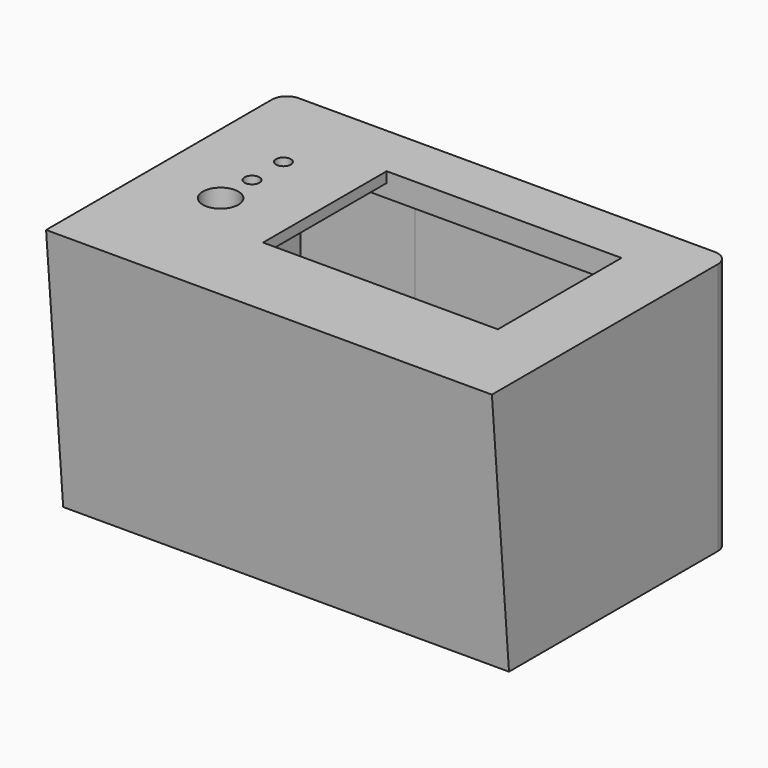
from build123d import *

# Parameters (mm, degrees)
F0_R     = 6
F0_R_2   = 2.5
F0_W     = 79
F0_H     = 52
F1_DEPTH = 85
F2_DEPTH = 77
F3_W     = 8
F3_H     = 52
F4_DEPTH = 81.5
F6_DEPTH = 150


with BuildPart() as f1:
    # F0 (on Top) → F1 (new body)
    with BuildSketch(Plane.XY):
        with BuildLine():
            Line((0, 95), (0, 0))
            Line((0, 0), (150, 0))
            Line((150, 0), (150, 95))
            ThreePointArc((150, 95), (148.535534, 98.535534), (145, 100))
            Line((145, 100), (5, 100))
            ThreePointArc((5, 100), (1.464466, 98.535534), (0, 95))
        make_face()
        Polygon((140, 94), (140, 18), (49, 18), (10, 18), (10, 94.470508), (49, 94), align=None, mode=Mode.SUBTRACT)
        Polygon((49, 18), (140, 18), (140, 94), (49, 94), (10, 94.470508), (10, 18), align=None)
        with Locations((24.5, 42.768653)):
            Circle(F0_R, mode=Mode.SUBTRACT)
        with Locations((24.5, 56)):
            Circle(F0_R_2, mode=Mode.SUBTRACT)
        with Locations((24.5, 69.2)):
            Circle(F0_R_2, mode=Mode.SUBTRACT)
        with Locations((88.5, 56)):
            Rectangle(F0_W, F0_H, mode=Mode.SUBTRACT)
    extrude(amount=F1_DEPTH)

    # F0 (on Top) → F2 (cut)
    with BuildSketch(Plane.XY):
        Polygon((49, 18), (140, 18), (140, 94), (49, 94), (10, 94.470508), (10, 18), align=None)
        with Locations((24.5, 42.768653)):
            Circle(F0_R, mode=Mode.SUBTRACT)
        with Locations((24.5, 56)):
            Circle(F0_R_2, mode=Mode.SUBTRACT)
        with Locations((24.5, 69.2)):
            Circle(F0_R_2, mode=Mode.SUBTRACT)
        with Locations((88.5, 56)):
            Rectangle(F0_W, F0_H, mode=Mode.SUBTRACT)
    extrude(amount=F2_DEPTH, mode=Mode.SUBTRACT)

    # F3 (on face) → F4 (cut)
    with BuildSketch(Plane.XY):
        with Locations((45, 56)):
            Rectangle(F3_W, F3_H)
    extrude(amount=F4_DEPTH, mode=Mode.SUBTRACT)

    # F5 (on face) → F6 (cut, through all)
    with BuildSketch(Plane(origin=(0, 0, 0), x_dir=(0, -1, 0), z_dir=(-1, 0, 0))):
        Polygon((0, 0), (0, 85), (-7.192497, 0), align=None)
    extrude(amount=-F6_DEPTH, mode=Mode.SUBTRACT)


solid = f1.part
